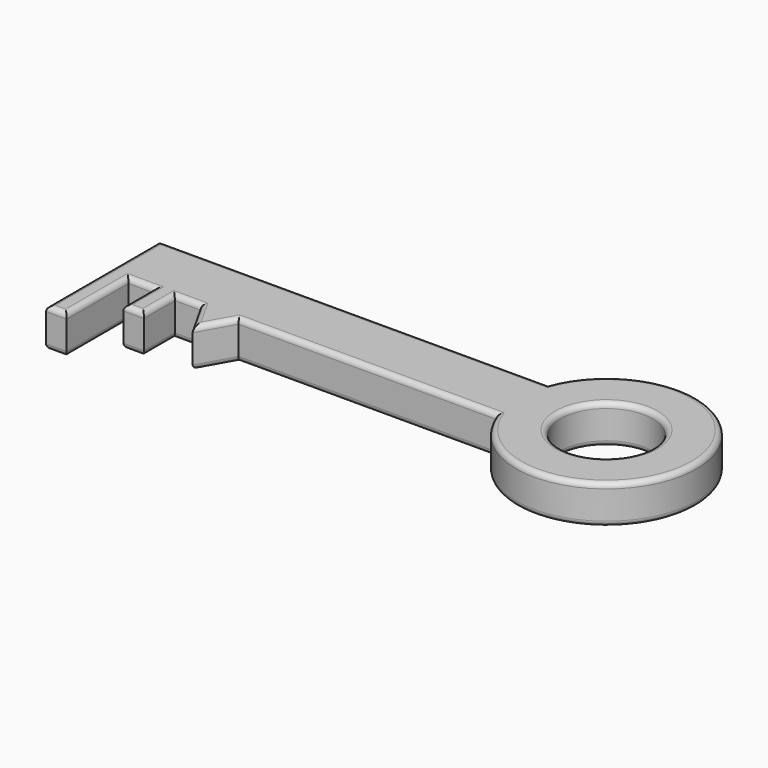
from build123d import *

# Parameters (mm, degrees)
F0_W     = 8
F0_H     = 30
F0_H_2   = 15
F0_R     = 17.872641
F1_DEPTH = 15
F2_R     = 2


with BuildPart() as f1:
    # F0 (on Top) → F1 (new body)
    with BuildSketch(Plane.XY):
        Polygon((2.090012, -11.230736), (9.453485, 1.837518), (-5.27346, 1.837518), align=None)
        with Locations((-37.27346, -13.162482)):
            Rectangle(F0_W, F0_H)
        with Locations((-19.27346, -5.662482)):
            Rectangle(F0_W, F0_H_2)
        with BuildLine():
            ThreePointArc((109.573999, 1.837518), (177.265741, 14.337518), (109.573999, 26.837518))
            Line((109.573999, 26.837518), (109.573999, 1.837518))
        make_face()
        with Locations((142.265741, 14.337518)):
            Circle(F0_R, mode=Mode.SUBTRACT)
        Polygon((109.573999, 26.837518), (-41.27346, 26.837518), (-41.27346, 1.837518), (-33.27346, 1.837518), (-23.27346, 1.837518), (-15.27346, 1.837518), (-5.27346, 1.837518), (9.453485, 1.837518), (109.573999, 1.837518), align=None)
    extrude(amount=F1_DEPTH)

    # F2
    f2_edges = [f1.edges().sort_by_distance(p)[0] for p in [
        (-41.27346, -0.662482, 15),
        (-37.27346, -28.162482, 15),
        (-33.27346, -13.162482, 15),
        (-28.27346, 1.837518, 15),
        (-23.27346, -5.662482, 15),
        (-19.27346, -13.162482, 15),
        (-15.27346, -5.662482, 15),
        (-10.27346, 1.837518, 15),
        (-1.591724, -4.696609, 15),
        (5.771749, -4.696609, 15),
        (59.513742, 1.837518, 15),
        (177.265741, 14.337518, 15),
        (34.150269, 26.837518, 15),
        (124.3931, 14.337518, 15),
        (-37.27346, -28.162482, 0),
        (-33.27346, -13.162482, 0),
        (-28.27346, 1.837518, 0),
        (-23.27346, -5.662482, 0),
        (-19.27346, -13.162482, 0),
        (-15.27346, -5.662482, 0),
        (-10.27346, 1.837518, 0),
        (-1.591724, -4.696609, 0),
        (5.771749, -4.696609, 0),
        (59.513742, 1.837518, 0),
        (177.265741, 14.337518, 0),
        (34.150269, 26.837518, 0),
        (-41.27346, -0.662482, 0),
        (124.3931, 14.337518, 0),
    ]]
    fillet(f2_edges, radius=F2_R)


solid = f1.part
